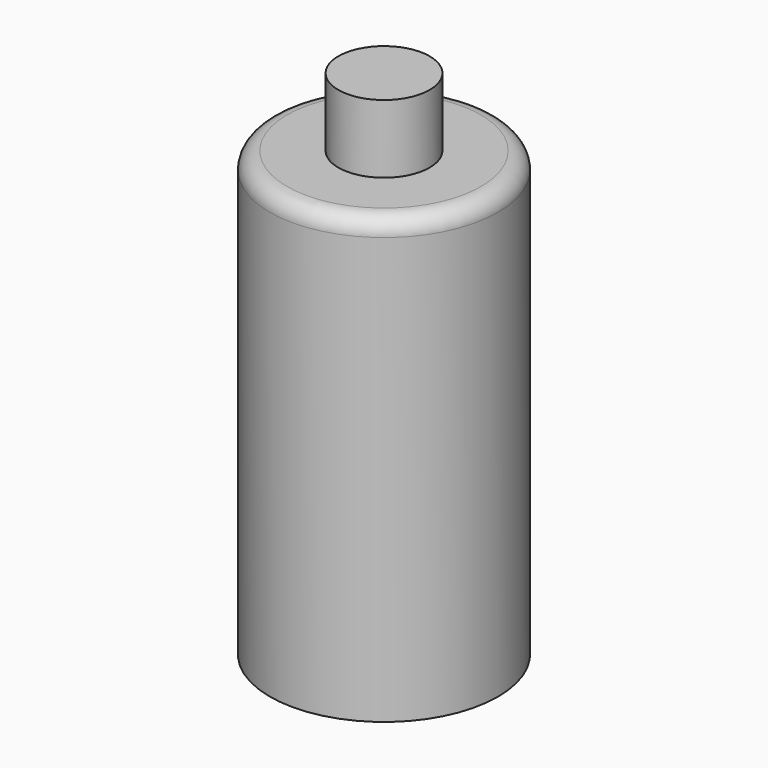
from build123d import *

# Parameters (mm, degrees)
F2_R     = 6.782292
F3_DEPTH = 10.16
F4_R     = 4.804255
F5_DEPTH = 4


with BuildPart() as f1:
    # F0 (on Front) → F1 (revolve)
    with BuildSketch(Plane.XZ):
        with BuildLine():
            Line((0, 41.822274), (0, -21.52941))
            Line((0, -21.52941), (16.948683, -21.52941))
            Line((16.948683, -21.52941), (16.948683, 44.362274))
            Line((16.948683, 44.362274), (2.54, 44.362274))
            ThreePointArc((2.54, 44.362274), (0.743949, 43.618325), (0, 41.822274))
        make_face()
    revolve(axis=Axis((16.948683, 0, 11.416432), (0, 0, 1)))

    # F2 (on face) → F3 (join)
    with BuildSketch(Plane.XY.offset(44.362274)):
        with Locations((16.948683, 0)):
            Circle(F2_R)
    extrude(amount=F3_DEPTH)

    # F4 (on face) → F5 (join)
    with BuildSketch(Plane.XY.offset(54.522274)):
        with Locations((16.948683, 0)):
            Circle(F4_R)
    extrude(amount=-F5_DEPTH)


solid = f1.part
